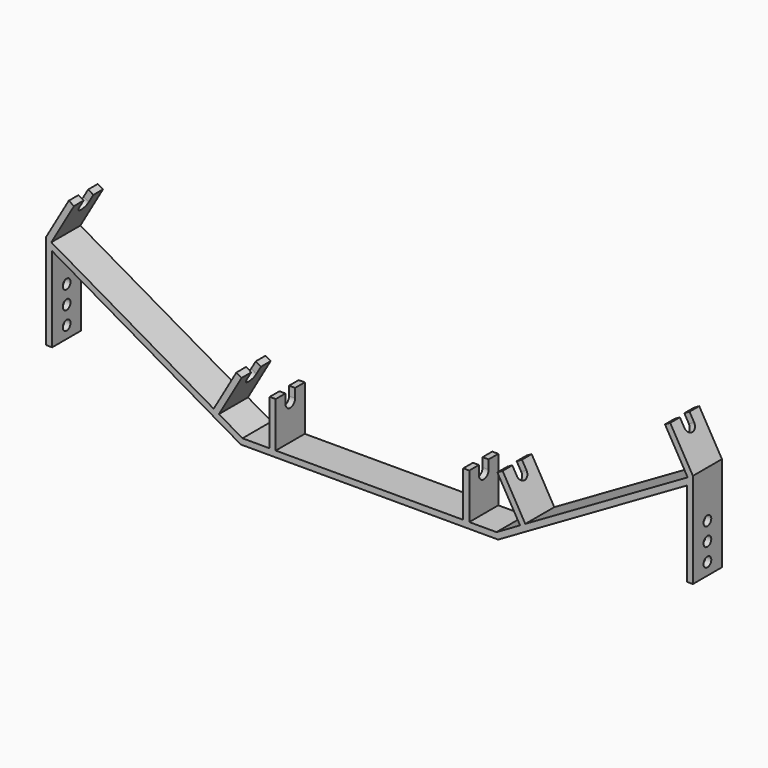
from build123d import *

# Parameters (mm, degrees)
F0_W      = 10
F0_H      = 75
F1_DEPTH  = 60
F3_DEPTH  = 330
F5_DEPTH  = 330
F7_DEPTH  = 330
F8_R      = 8
F9_DEPTH  = 25
F10_R     = 8
F11_DEPTH = 25


with BuildPart() as f1:
    # F0 (on Front) → F1 (new body)
    with BuildSketch(Plane.XZ):
        Polygon((248.9711431703, 32.5), (210, 10), (165, 10), (155, 10), (0, 10), (0, 0), (212.6794919243, 0), (524.7595264192, 180.1794919243), (524.7595264192, 40), (534.7595264192, 40), (534.7595264192, 197.5), (526.0992723813, 192.5), (257.6313972081, 37.5), align=None)
        Polygon((211.4711431703, 97.4519052838), (248.9711431703, 32.5), (257.6313972081, 37.5), (220.1313972081, 102.4519052838), align=None)
        with Locations((160, 47.5)):
            Rectangle(F0_W, F0_H)
        Polygon((488.5992723813, 257.4519052838), (526.0992723813, 192.5), (534.7595264192, 197.5), (497.2595264192, 262.4519052838), align=None)
        Polygon((0, 0), (0, 10), (-155, 10), (-165, 10), (-210, 10), (-248.9711431703, 32.5), (-257.6313972081, 37.5), (-526.0992723813, 192.5), (-534.7595264192, 197.5), (-534.7595264192, 40), (-524.7595264192, 40), (-524.7595264192, 180.1794919243), (-212.6794919243, 0), align=None)
        with Locations((-160, 47.5)):
            Rectangle(F0_W, F0_H)
        Polygon((-257.6313972081, 37.5), (-248.9711431703, 32.5), (-211.4711431703, 97.4519052838), (-220.1313972081, 102.4519052838), align=None)
        Polygon((-497.2595264192, 262.4519052838), (-534.7595264192, 197.5), (-526.0992723813, 192.5), (-488.5992723813, 257.4519052838), align=None)
    extrude(amount=F1_DEPTH)

    # F2 (on face) → F3 (cut, through all)
    with BuildSketch(Plane(origin=(-486.5896534381, 0, 280.9326673974), x_dir=(0, -1, 0), z_dir=(-0.8660254038, 0, 0.5))):
        with BuildLine():
            Line((40, -21.3397459622), (20, -21.3397459622))
            Line((20, -21.3397459622), (20, -36.3397459622))
            ThreePointArc((20, -36.3397459622), (30, -46.3397459622), (40, -36.3397459622))
            Line((40, -36.3397459622), (40, -21.3397459622))
        make_face()
    extrude(amount=-F3_DEPTH, mode=Mode.SUBTRACT)

    # F4 (on face) → F5 (cut, through all)
    with BuildSketch(Plane(origin=(-165, 0, 0), x_dir=(0, -1, 0), z_dir=(-1, 0, 0))):
        with BuildLine():
            Line((40, 70), (40, 85))
            Line((40, 85), (20, 85))
            Line((20, 85), (20, 70))
            ThreePointArc((20, 70), (30, 60), (40, 70))
        make_face()
    extrude(amount=-F5_DEPTH, mode=Mode.SUBTRACT)

    # F6 (on face) → F7 (cut, through all)
    with BuildSketch(Plane(origin=(486.5896534381, 0, 280.9326673974), x_dir=(0, 1, 0), z_dir=(0.8660254038, 0, 0.5))):
        with BuildLine():
            Line((-40, -21.3397459622), (-40, -36.3397459622))
            ThreePointArc((-40, -36.3397459622), (-30, -46.3397459622), (-20, -36.3397459622))
            Line((-20, -36.3397459622), (-20, -21.3397459622))
            Line((-20, -21.3397459622), (-40, -21.3397459622))
        make_face()
    extrude(amount=-F7_DEPTH, mode=Mode.SUBTRACT)

    # F8 (on face) → F9 (cut)
    with BuildSketch(Plane(origin=(-534.7595264192, 0, 0), x_dir=(0, -1, 0), z_dir=(-1, 0, 0))):
        with Locations((30, 60)):
            Circle(F8_R)
        with Locations((30, 120)):
            Circle(F8_R)
        with Locations((30, 90)):
            Circle(F8_R)
    extrude(amount=-F9_DEPTH, mode=Mode.SUBTRACT)

    # F10 (on face) → F11 (cut)
    with BuildSketch(Plane.YZ.offset(534.7595264192)):
        with Locations((-30, 60)):
            Circle(F10_R)
        with Locations((-30, 120)):
            Circle(F10_R)
        with Locations((-30, 90)):
            Circle(F10_R)
    extrude(amount=-F11_DEPTH, mode=Mode.SUBTRACT)


solid = f1.part
